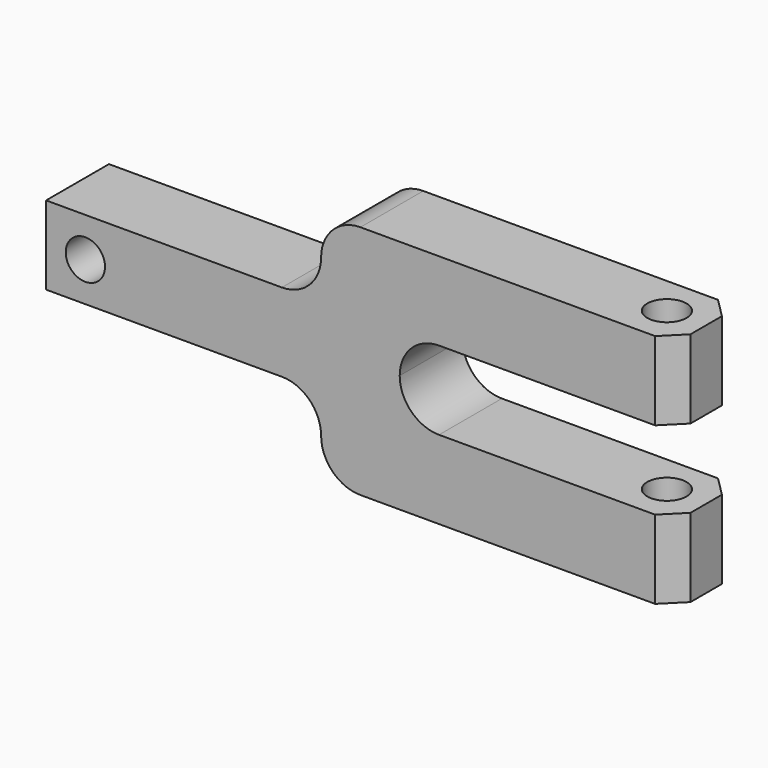
from build123d import *

# Parameters (mm, degrees)
F0_R     = 6.35
F2_DEPTH = 25.4
F3_SIZE2 = 6.35
F3_SIZE  = 6.35
F1_R     = 6.35
F4_DEPTH = 127


with BuildPart() as f2:
    # F0 (on Front) → F2 (new body)
    with BuildSketch(Plane.XZ):
        with BuildLine():
            Line((0, 25.4), (0, 0))
            Line((0, 0), (76.2, 0))
            ThreePointArc((76.2, 0), (85.180256, -3.719744), (88.9, -12.7))
            ThreePointArc((88.9, -12.7), (92.619744, -21.680256), (101.6, -25.4))
            Line((101.6, -25.4), (203.2, -25.4))
            Line((203.2, -25.4), (203.2, 0))
            Line((203.2, 0), (127, 0))
            ThreePointArc((127, 0), (118.019744, 3.719744), (114.3, 12.7))
            ThreePointArc((114.3, 12.7), (118.019744, 21.680256), (127, 25.4))
            Line((127, 25.4), (203.2, 25.4))
            Line((203.2, 25.4), (203.2, 50.8))
            Line((203.2, 50.8), (101.6, 50.8))
            ThreePointArc((101.6, 50.8), (92.619744, 47.080256), (88.9, 38.1))
            ThreePointArc((88.9, 38.1), (85.180256, 29.119744), (76.2, 25.4))
            Line((76.2, 25.4), (0, 25.4))
        make_face()
        with Locations((12.7, 12.7)):
            Circle(F0_R, mode=Mode.SUBTRACT)
    extrude(amount=F2_DEPTH)

    # F3
    f3_edges = [f2.edges().sort_by_distance(p)[0] for p in [
        (203.2, -25.4, 38.1),
        (203.2, -25.4, -12.7),
        (203.2, 0, -12.7),
        (203.2, 0, 38.1),
    ]]
    chamfer(f3_edges, length=F3_SIZE, length2=F3_SIZE2)

    # F1 (on Top) → F4 (cut, symmetric)
    with BuildSketch(Plane.XY):
        with Locations((190.5, -12.7)):
            Circle(F1_R)
    extrude(amount=F4_DEPTH, both=True, mode=Mode.SUBTRACT)


solid = f2.part
